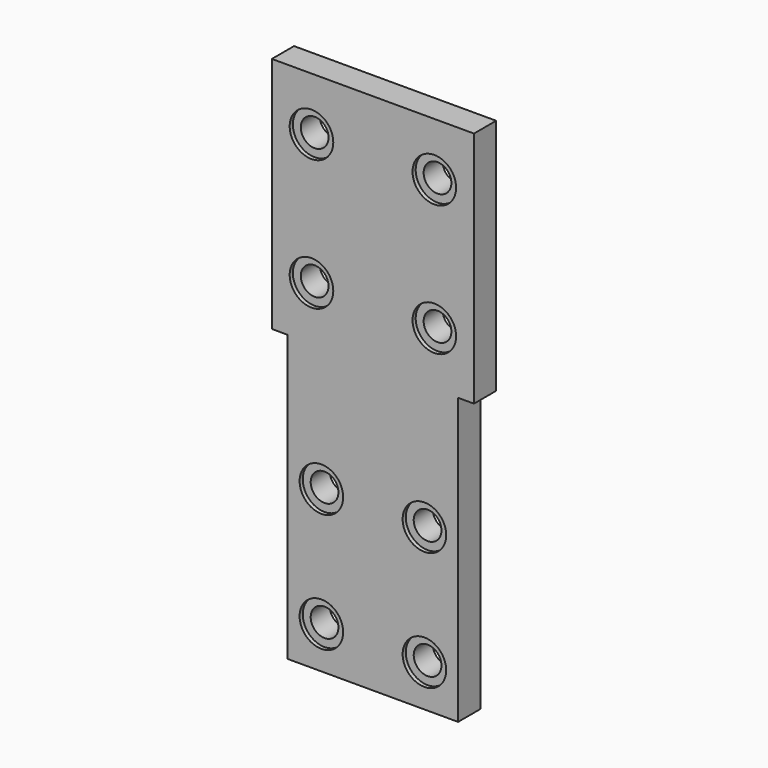
from build123d import *

# Parameters (mm, degrees)
F0_W      = 51
F0_H      = 60
F1_DEPTH  = 7
F2_R      = 3.5
F3_DEPTH  = 25
F4_R      = 5.5
F5_DEPTH  = 1
F6_W      = 43
F6_H      = 80
F7_DEPTH  = 7
F9_R      = 3.5
F10_DEPTH = 25
F11_R     = 5.5
F12_DEPTH = 1
F13_W     = 43
F13_H     = 8
F14_DEPTH = 25


with BuildPart() as f1:
    # F0 (on Front) → F1 (new body)
    with BuildSketch(Plane.XZ):
        Rectangle(F0_W, F0_H)
    extrude(amount=F1_DEPTH)

    # F2 (on face) → F3 (cut)
    with BuildSketch(Plane.XZ.offset(7)):
        with Locations((-15.5, 16.5)):
            Circle(F2_R)
        with Locations((-15.5, -16.5)):
            Circle(F2_R)
        with Locations((15.5, 16.5)):
            Circle(F2_R)
        with Locations((15.5, -16.5)):
            Circle(F2_R)
    extrude(amount=-F3_DEPTH, mode=Mode.SUBTRACT)

    # F4 (on face) → F5 (cut)
    with BuildSketch(Plane.XZ.offset(7)):
        with Locations((-15.5, 16.5)):
            Circle(F4_R)
        with Locations((-15.5, -16.5)):
            Circle(F4_R)
        with Locations((15.5, -16.5)):
            Circle(F4_R)
        with Locations((15.5, 16.5)):
            Circle(F4_R)
    extrude(amount=-F5_DEPTH, mode=Mode.SUBTRACT)


with BuildPart() as f7:
    # F6 (on face) → F7 (new body)
    with BuildSketch(Plane.XZ.offset(7)):
        with Locations((0, -70)):
            Rectangle(F6_W, F6_H)
    extrude(amount=-F7_DEPTH)


with BuildPart() as f1_1:
    add(f1.part)

    # F8: union F7
    add(f7.part)

    # F9 (on face) → F10 (cut)
    with BuildSketch(Plane.XZ.offset(7)):
        with Locations((-13, -61.5)):
            Circle(F9_R)
        with Locations((13, -61.5)):
            Circle(F9_R)
        with Locations((-13, -91.5)):
            Circle(F9_R)
        with Locations((13, -91.5)):
            Circle(F9_R)
    extrude(amount=-F10_DEPTH, mode=Mode.SUBTRACT)

    # F11 (on face) → F12 (cut)
    with BuildSketch(Plane.XZ.offset(7)):
        with Locations((-13, -61.5)):
            Circle(F11_R)
        with Locations((13, -61.5)):
            Circle(F11_R)
        with Locations((-13, -91.5)):
            Circle(F11_R)
        with Locations((13, -91.5)):
            Circle(F11_R)
    extrude(amount=-F12_DEPTH, mode=Mode.SUBTRACT)

    # F13 (on face) → F14 (cut)
    with BuildSketch(Plane.XZ.offset(7)):
        with Locations((0, -106)):
            Rectangle(F13_W, F13_H)
    extrude(amount=-F14_DEPTH, mode=Mode.SUBTRACT)


solid = f1_1.part
